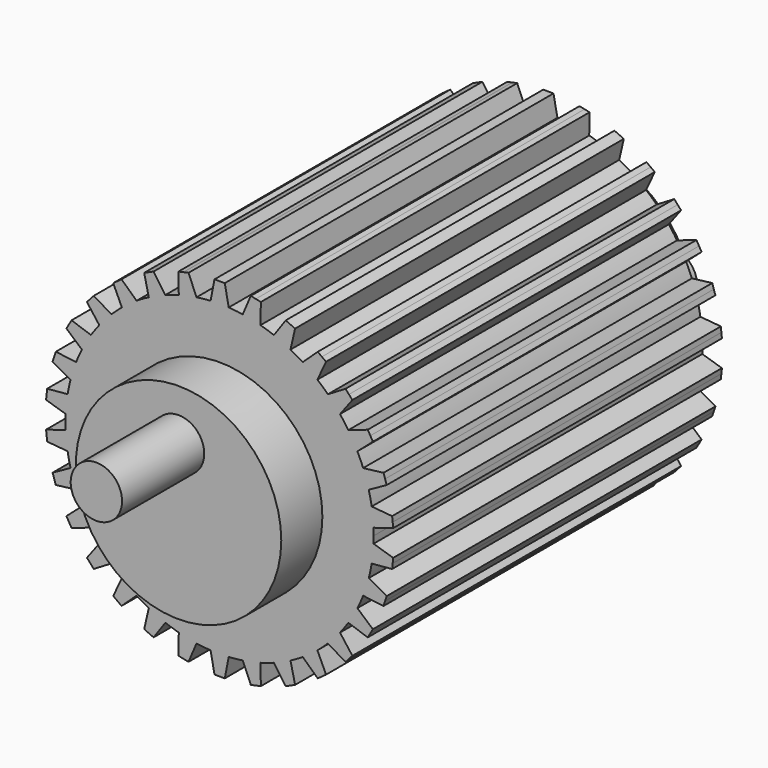
from build123d import *

# Parameters (mm, degrees)
F1_DEPTH = 40
F2_R     = 10
F3_DEPTH = 5
F4_R     = 10
F5_DEPTH = 5
F6_R     = 2.5
F7_DEPTH = 10
F8_R     = 2.5
F9_DEPTH = 10


with BuildPart() as f1:
    # F0 (on Front) → F1 (new body)
    with BuildSketch(Plane.XZ):
        with BuildLine():
            ThreePointArc((14.984289, -0.686353), (14.996072, -0.343266), (15, 0))
            ThreePointArc((15, 0), (14.996072, 0.343266), (14.984289, 0.686353))
            ThreePointArc((14.984289, 0.686353), (14.917828, 1.567927), (14.799547, 2.444054))
            ThreePointArc((14.799547, 2.444054), (14.672214, 3.118675), (14.514146, 3.786763))
            ThreePointArc((14.514146, 3.786763), (14.265848, 4.635255), (13.967994, 5.467645))
            ThreePointArc((13.967994, 5.467645), (13.703182, 6.10105), (13.409664, 6.721674))
            ThreePointArc((13.409664, 6.721674), (12.990381, 7.5), (12.525973, 8.252273))
            ThreePointArc((12.525973, 8.252273), (12.135255, 8.816779), (11.719116, 9.362815))
            ThreePointArc((11.719116, 9.362815), (11.147172, 10.036959), (10.536506, 10.676237))
            ThreePointArc((10.536506, 10.676237), (10.036959, 11.147172), (9.516387, 11.594757))
            ThreePointArc((9.516387, 11.594757), (8.816779, 12.135255), (8.086544, 12.633599))
            ThreePointArc((8.086544, 12.633599), (7.5, 12.990381), (6.897745, 13.319952))
            ThreePointArc((6.897745, 13.319952), (6.10105, 13.703182), (5.28316, 14.038811))
            ThreePointArc((5.28316, 14.038811), (4.635255, 14.265848), (3.977639, 14.463001))
            ThreePointArc((3.977639, 14.463001), (3.118675, 14.672214), (2.248878, 14.83046))
            ThreePointArc((2.248878, 14.83046), (1.567927, 14.917828), (0.883692, 14.973947))
            ThreePointArc((0.883692, 14.973947), (0, 15), (-0.883692, 14.973947))
            ThreePointArc((-0.883692, 14.973947), (-1.567927, 14.917828), (-2.248878, 14.83046))
            ThreePointArc((-2.248878, 14.83046), (-3.118675, 14.672214), (-3.977639, 14.463001))
            ThreePointArc((-3.977639, 14.463001), (-4.635255, 14.265848), (-5.28316, 14.038811))
            ThreePointArc((-5.28316, 14.038811), (-6.10105, 13.703182), (-6.897745, 13.319952))
            ThreePointArc((-6.897745, 13.319952), (-7.5, 12.990381), (-8.086544, 12.633599))
            ThreePointArc((-8.086544, 12.633599), (-8.816779, 12.135255), (-9.516387, 11.594757))
            ThreePointArc((-9.516387, 11.594757), (-10.036959, 11.147172), (-10.536506, 10.676237))
            ThreePointArc((-10.536506, 10.676237), (-11.147172, 10.036959), (-11.719116, 9.362815))
            ThreePointArc((-11.719116, 9.362815), (-12.135255, 8.816779), (-12.525973, 8.252273))
            ThreePointArc((-12.525973, 8.252273), (-12.990381, 7.5), (-13.409664, 6.721674))
            ThreePointArc((-13.409664, 6.721674), (-13.703182, 6.10105), (-13.967994, 5.467645))
            ThreePointArc((-13.967994, 5.467645), (-14.265848, 4.635255), (-14.514146, 3.786763))
            ThreePointArc((-14.514146, 3.786763), (-14.672214, 3.118675), (-14.799547, 2.444054))
            ThreePointArc((-14.799547, 2.444054), (-14.917828, 1.567927), (-14.984289, 0.686353))
            ThreePointArc((-14.984289, 0.686353), (-15, 0), (-14.984289, -0.686353))
            ThreePointArc((-14.984289, -0.686353), (-14.917828, -1.567927), (-14.799547, -2.444054))
            ThreePointArc((-14.799547, -2.444054), (-14.672214, -3.118675), (-14.514146, -3.786763))
            ThreePointArc((-14.514146, -3.786763), (-14.265848, -4.635255), (-13.967994, -5.467645))
            ThreePointArc((-13.967994, -5.467645), (-13.703182, -6.10105), (-13.409664, -6.721674))
            ThreePointArc((-13.409664, -6.721674), (-12.990381, -7.5), (-12.525973, -8.252273))
            ThreePointArc((-12.525973, -8.252273), (-12.135255, -8.816779), (-11.719116, -9.362815))
            ThreePointArc((-11.719116, -9.362815), (-11.147172, -10.036959), (-10.536506, -10.676237))
            ThreePointArc((-10.536506, -10.676237), (-10.036959, -11.147172), (-9.516387, -11.594757))
            ThreePointArc((-9.516387, -11.594757), (-8.816779, -12.135255), (-8.086544, -12.633599))
            ThreePointArc((-8.086544, -12.633599), (-7.5, -12.990381), (-6.897745, -13.319952))
            ThreePointArc((-6.897745, -13.319952), (-6.10105, -13.703182), (-5.28316, -14.038811))
            ThreePointArc((-5.28316, -14.038811), (-4.635255, -14.265848), (-3.977639, -14.463001))
            ThreePointArc((-3.977639, -14.463001), (-3.118675, -14.672214), (-2.248878, -14.83046))
            ThreePointArc((-2.248878, -14.83046), (-1.567927, -14.917828), (-0.883692, -14.973947))
            ThreePointArc((-0.883692, -14.973947), (0, -15), (0.883692, -14.973947))
            ThreePointArc((0.883692, -14.973947), (1.567927, -14.917828), (2.248878, -14.83046))
            ThreePointArc((2.248878, -14.83046), (3.118675, -14.672214), (3.977639, -14.463001))
            ThreePointArc((3.977639, -14.463001), (4.635255, -14.265848), (5.28316, -14.038811))
            ThreePointArc((5.28316, -14.038811), (6.10105, -13.703182), (6.897745, -13.319952))
            ThreePointArc((6.897745, -13.319952), (7.5, -12.990381), (8.086544, -12.633599))
            ThreePointArc((8.086544, -12.633599), (8.816779, -12.135255), (9.516387, -11.594757))
            ThreePointArc((9.516387, -11.594757), (10.036959, -11.147172), (10.536506, -10.676237))
            ThreePointArc((10.536506, -10.676237), (11.147172, -10.036959), (11.719116, -9.362815))
            ThreePointArc((11.719116, -9.362815), (12.135255, -8.816779), (12.525973, -8.252273))
            ThreePointArc((12.525973, -8.252273), (12.990381, -7.5), (13.409664, -6.721674))
            ThreePointArc((13.409664, -6.721674), (13.703182, -6.10105), (13.967994, -5.467645))
            ThreePointArc((13.967994, -5.467645), (14.265848, -4.635255), (14.514146, -3.786763))
            ThreePointArc((14.514146, -3.786763), (14.672214, -3.118675), (14.799547, -2.444054))
            ThreePointArc((14.799547, -2.444054), (14.917828, -1.567927), (14.984289, -0.686353))
        make_face()
        with BuildLine():
            ThreePointArc((14.799547, 2.444054), (14.917828, 1.567927), (14.984289, 0.686353))
            Line((14.984289, 0.686353), (16.89628, 1.273116))
            Line((16.89628, 1.273116), (16.844016, 1.770377))
            Line((16.844016, 1.770377), (16.791751, 2.267638))
            Line((16.791751, 2.267638), (14.799547, 2.444054))
        make_face()
        with BuildLine():
            Line((16.89628, -1.273116), (14.984289, -0.686353))
            ThreePointArc((14.984289, -0.686353), (14.917828, -1.567927), (14.799547, -2.444054))
            Line((14.799547, -2.444054), (16.791751, -2.267638))
            Line((16.791751, -2.267638), (16.844016, -1.770377))
            Line((16.844016, -1.770377), (16.89628, -1.273116))
        make_face()
        with BuildLine():
            ThreePointArc((13.967994, 5.467645), (14.265848, 4.635255), (14.514146, 3.786763))
            Line((14.514146, 3.786763), (16.26236, 4.75823))
            Line((16.26236, 4.75823), (16.107851, 5.233758))
            Line((16.107851, 5.233758), (15.953343, 5.709286))
            Line((15.953343, 5.709286), (13.967994, 5.467645))
        make_face()
        with BuildLine():
            Line((16.26236, -4.75823), (14.514146, -3.786763))
            ThreePointArc((14.514146, -3.786763), (14.265848, -4.635255), (13.967994, -5.467645))
            Line((13.967994, -5.467645), (15.953343, -5.709286))
            Line((15.953343, -5.709286), (16.107851, -5.233758))
            Line((16.107851, -5.233758), (16.26236, -4.75823))
        make_face()
        with BuildLine():
            ThreePointArc((12.525973, 8.252273), (12.990381, 7.5), (13.409664, 6.721674))
            Line((13.409664, 6.721674), (14.917697, 8.035386))
            Line((14.917697, 8.035386), (14.667697, 8.468399))
            Line((14.667697, 8.468399), (14.417697, 8.901411))
            Line((14.417697, 8.901411), (12.525973, 8.252273))
        make_face()
        with BuildLine():
            Line((14.917697, -8.035386), (13.409664, -6.721674))
            ThreePointArc((13.409664, -6.721674), (12.990381, -7.5), (12.525973, -8.252273))
            Line((12.525973, -8.252273), (14.417697, -8.901411))
            Line((14.417697, -8.901411), (14.667697, -8.468399))
            Line((14.667697, -8.468399), (14.917697, -8.035386))
        make_face()
        with BuildLine():
            ThreePointArc((10.536506, 10.676237), (11.147172, 10.036959), (11.719116, 9.362815))
            Line((11.719116, 9.362815), (12.921058, 10.961357))
            Line((12.921058, 10.961357), (12.586493, 11.332929))
            Line((12.586493, 11.332929), (12.251928, 11.704502))
            Line((12.251928, 11.704502), (10.536506, 10.676237))
        make_face()
        with BuildLine():
            Line((12.921058, -10.961357), (11.719116, -9.362815))
            ThreePointArc((11.719116, -9.362815), (11.147172, -10.036959), (10.536506, -10.676237))
            Line((10.536506, -10.676237), (12.251928, -11.704502))
            Line((12.251928, -11.704502), (12.586493, -11.332929))
            Line((12.586493, -11.332929), (12.921058, -10.961357))
        make_face()
        with BuildLine():
            ThreePointArc((8.086544, 12.633599), (8.816779, 12.135255), (9.516387, 11.594757))
            Line((9.516387, 11.594757), (10.359708, 13.408264))
            Line((10.359708, 13.408264), (9.9552, 13.702157))
            Line((9.9552, 13.702157), (9.550691, 13.996049))
            Line((9.550691, 13.996049), (8.086544, 12.633599))
        make_face()
        with BuildLine():
            Line((10.359708, -13.408264), (9.516387, -11.594757))
            ThreePointArc((9.516387, -11.594757), (8.816779, -12.135255), (8.086544, -12.633599))
            Line((8.086544, -12.633599), (9.550691, -13.996049))
            Line((9.550691, -13.996049), (9.9552, -13.702157))
            Line((9.9552, -13.702157), (10.359708, -13.408264))
        make_face()
        with BuildLine():
            ThreePointArc((5.28316, 14.038811), (6.10105, 13.703182), (6.897745, 13.319952))
            Line((6.897745, 13.319952), (7.345589, 15.269166))
            Line((7.345589, 15.269166), (6.888816, 15.472534))
            Line((6.888816, 15.472534), (6.432043, 15.675902))
            Line((6.432043, 15.675902), (5.28316, 14.038811))
        make_face()
        with BuildLine():
            Line((7.345589, -15.269166), (6.897745, -13.319952))
            ThreePointArc((6.897745, -13.319952), (6.10105, -13.703182), (5.28316, -14.038811))
            Line((5.28316, -14.038811), (6.432043, -15.675902))
            Line((6.432043, -15.675902), (6.888816, -15.472534))
            Line((6.888816, -15.472534), (7.345589, -15.269166))
        make_face()
        with BuildLine():
            ThreePointArc((2.248878, 14.83046), (3.118675, 14.672214), (3.977639, 14.463001))
            Line((3.977639, 14.463001), (4.010432, 16.462732))
            Line((4.010432, 16.462732), (3.521358, 16.566688))
            Line((3.521358, 16.566688), (3.032284, 16.670643))
            Line((3.032284, 16.670643), (2.248878, 14.83046))
        make_face()
        with BuildLine():
            Line((4.010432, -16.462732), (3.977639, -14.463001))
            ThreePointArc((3.977639, -14.463001), (3.118675, -14.672214), (2.248878, -14.83046))
            Line((2.248878, -14.83046), (3.032284, -16.670643))
            Line((3.032284, -16.670643), (3.521358, -16.566688))
            Line((3.521358, -16.566688), (4.010432, -16.462732))
        make_face()
        with BuildLine():
            ThreePointArc((-0.883692, 14.973947), (0, 15), (0.883692, 14.973947))
            Line((0.883692, 14.973947), (0.5, 16.936797))
            Line((0.5, 16.936797), (0, 16.936797))
            Line((0, 16.936797), (-0.5, 16.936797))
            Line((-0.5, 16.936797), (-0.883692, 14.973947))
        make_face()
        with BuildLine():
            Line((0.5, -16.936797), (0.883692, -14.973947))
            ThreePointArc((0.883692, -14.973947), (0, -15), (-0.883692, -14.973947))
            Line((-0.883692, -14.973947), (-0.5, -16.936797))
            Line((-0.5, -16.936797), (0, -16.936797))
            Line((0, -16.936797), (0.5, -16.936797))
        make_face()
        with BuildLine():
            ThreePointArc((-3.977639, 14.463001), (-3.118675, 14.672214), (-2.248878, 14.83046))
            Line((-2.248878, 14.83046), (-3.032284, 16.670643))
            Line((-3.032284, 16.670643), (-3.521358, 16.566688))
            Line((-3.521358, 16.566688), (-4.010432, 16.462732))
            Line((-4.010432, 16.462732), (-3.977639, 14.463001))
        make_face()
        with BuildLine():
            Line((-3.032284, -16.670643), (-2.248878, -14.83046))
            ThreePointArc((-2.248878, -14.83046), (-3.118675, -14.672214), (-3.977639, -14.463001))
            Line((-3.977639, -14.463001), (-4.010432, -16.462732))
            Line((-4.010432, -16.462732), (-3.521358, -16.566688))
            Line((-3.521358, -16.566688), (-3.032284, -16.670643))
        make_face()
        with BuildLine():
            ThreePointArc((-6.897745, 13.319952), (-6.10105, 13.703182), (-5.28316, 14.038811))
            Line((-5.28316, 14.038811), (-6.432043, 15.675902))
            Line((-6.432043, 15.675902), (-6.888816, 15.472534))
            Line((-6.888816, 15.472534), (-7.345589, 15.269166))
            Line((-7.345589, 15.269166), (-6.897745, 13.319952))
        make_face()
        with BuildLine():
            Line((-6.432043, -15.675902), (-5.28316, -14.038811))
            ThreePointArc((-5.28316, -14.038811), (-6.10105, -13.703182), (-6.897745, -13.319952))
            Line((-6.897745, -13.319952), (-7.345589, -15.269166))
            Line((-7.345589, -15.269166), (-6.888816, -15.472534))
            Line((-6.888816, -15.472534), (-6.432043, -15.675902))
        make_face()
        with BuildLine():
            ThreePointArc((-9.516387, 11.594757), (-8.816779, 12.135255), (-8.086544, 12.633599))
            Line((-8.086544, 12.633599), (-9.550691, 13.996049))
            Line((-9.550691, 13.996049), (-9.9552, 13.702157))
            Line((-9.9552, 13.702157), (-10.359708, 13.408264))
            Line((-10.359708, 13.408264), (-9.516387, 11.594757))
        make_face()
        with BuildLine():
            Line((-9.550691, -13.996049), (-8.086544, -12.633599))
            ThreePointArc((-8.086544, -12.633599), (-8.816779, -12.135255), (-9.516387, -11.594757))
            Line((-9.516387, -11.594757), (-10.359708, -13.408264))
            Line((-10.359708, -13.408264), (-9.9552, -13.702157))
            Line((-9.9552, -13.702157), (-9.550691, -13.996049))
        make_face()
        with BuildLine():
            ThreePointArc((-11.719116, 9.362815), (-11.147172, 10.036959), (-10.536506, 10.676237))
            Line((-10.536506, 10.676237), (-12.251928, 11.704502))
            Line((-12.251928, 11.704502), (-12.586493, 11.332929))
            Line((-12.586493, 11.332929), (-12.921058, 10.961357))
            Line((-12.921058, 10.961357), (-11.719116, 9.362815))
        make_face()
        with BuildLine():
            Line((-12.251928, -11.704502), (-10.536506, -10.676237))
            ThreePointArc((-10.536506, -10.676237), (-11.147172, -10.036959), (-11.719116, -9.362815))
            Line((-11.719116, -9.362815), (-12.921058, -10.961357))
            Line((-12.921058, -10.961357), (-12.586493, -11.332929))
            Line((-12.586493, -11.332929), (-12.251928, -11.704502))
        make_face()
        with BuildLine():
            ThreePointArc((-13.409664, 6.721674), (-12.990381, 7.5), (-12.525973, 8.252273))
            Line((-12.525973, 8.252273), (-14.417697, 8.901411))
            Line((-14.417697, 8.901411), (-14.667697, 8.468399))
            Line((-14.667697, 8.468399), (-14.917697, 8.035386))
            Line((-14.917697, 8.035386), (-13.409664, 6.721674))
        make_face()
        with BuildLine():
            Line((-14.417697, -8.901411), (-12.525973, -8.252273))
            ThreePointArc((-12.525973, -8.252273), (-12.990381, -7.5), (-13.409664, -6.721674))
            Line((-13.409664, -6.721674), (-14.917697, -8.035386))
            Line((-14.917697, -8.035386), (-14.667697, -8.468399))
            Line((-14.667697, -8.468399), (-14.417697, -8.901411))
        make_face()
        with BuildLine():
            ThreePointArc((-14.514146, 3.786763), (-14.265848, 4.635255), (-13.967994, 5.467645))
            Line((-13.967994, 5.467645), (-15.953343, 5.709286))
            Line((-15.953343, 5.709286), (-16.107851, 5.233758))
            Line((-16.107851, 5.233758), (-16.26236, 4.75823))
            Line((-16.26236, 4.75823), (-14.514146, 3.786763))
        make_face()
        with BuildLine():
            Line((-15.953343, -5.709286), (-13.967994, -5.467645))
            ThreePointArc((-13.967994, -5.467645), (-14.265848, -4.635255), (-14.514146, -3.786763))
            Line((-14.514146, -3.786763), (-16.26236, -4.75823))
            Line((-16.26236, -4.75823), (-16.107851, -5.233758))
            Line((-16.107851, -5.233758), (-15.953343, -5.709286))
        make_face()
        with BuildLine():
            ThreePointArc((-14.984289, 0.686353), (-14.917828, 1.567927), (-14.799547, 2.444054))
            Line((-14.799547, 2.444054), (-16.791751, 2.267638))
            Line((-16.791751, 2.267638), (-16.844016, 1.770377))
            Line((-16.844016, 1.770377), (-16.89628, 1.273116))
            Line((-16.89628, 1.273116), (-14.984289, 0.686353))
        make_face()
        with BuildLine():
            Line((-16.791751, -2.267638), (-14.799547, -2.444054))
            ThreePointArc((-14.799547, -2.444054), (-14.917828, -1.567927), (-14.984289, -0.686353))
            Line((-14.984289, -0.686353), (-16.89628, -1.273116))
            Line((-16.89628, -1.273116), (-16.844016, -1.770377))
            Line((-16.844016, -1.770377), (-16.791751, -2.267638))
        make_face()
    extrude(amount=F1_DEPTH)

    # F2 (on face) → F3 (join)
    with BuildSketch(Plane(origin=(0, 0, 0), x_dir=(-1, 0, 0), z_dir=(0, 1, 0))):
        Circle(F2_R)
    extrude(amount=F3_DEPTH)

    # F4 (on face) → F5 (join)
    with BuildSketch(Plane.XZ.offset(40)):
        Circle(F4_R)
    extrude(amount=F5_DEPTH)

    # F6 (on face) → F7 (join)
    with BuildSketch(Plane.XZ.offset(45)):
        with Locations((0, 5)):
            Circle(F6_R)
    extrude(amount=F7_DEPTH)

    # F8 (on face) → F9 (join)
    with BuildSketch(Plane(origin=(0, 5, 0), x_dir=(-1, 0, 0), z_dir=(0, 1, 0))):
        with Locations((0, -5)):
            Circle(F8_R)
    extrude(amount=F9_DEPTH)


solid = f1.part
